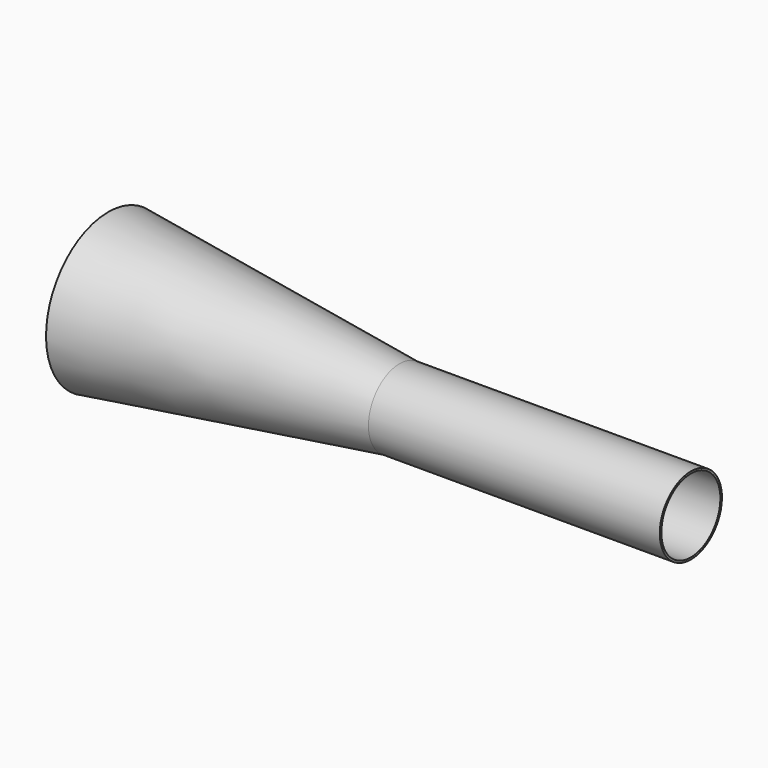
from build123d import *

# Parameters (mm, degrees)
F2_T = -2.54


with BuildPart() as f1:
    # F0 (on Front) → F1 (revolve)
    with BuildSketch(Plane.XZ):
        Polygon((-381, 101.6), (-381, 0), (381, 0), (381, 50.8), (0, 50.8), align=None)
    revolve(axis=Axis((0, 0, 0), (1, 0, 0)))

    # F2
    f2_openings = [f1.faces().sort_by_distance(p)[0] for p in [
        (-381, 0, 0),
        (381, 0, 0),
    ]]
    offset(amount=F2_T, openings=f2_openings, kind=Kind.INTERSECTION)


solid = f1.part
